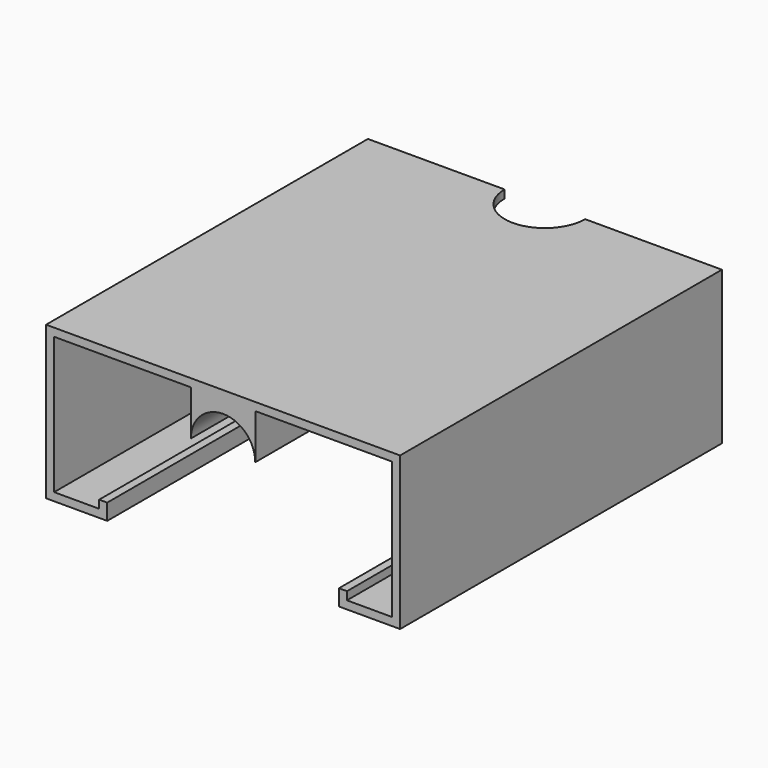
from build123d import *

# Parameters (mm, degrees)
F1_DEPTH = 25
F3_DEPTH = 9.501


with BuildPart() as f1:
    # F0 (on Front) → F1 (new body)
    with BuildSketch(Plane.XZ):
        Polygon((-11, 0), (-10.5, 0), (-10.5, 8.5), (-2, 8.5), (0, 8.5), (2, 8.5), (10.5, 8.5), (10.5, 0), (11, 0), (11, 9), (0, 9), (-11, 9), align=None)
        Polygon((-7.7, 0), (-10.5, 0), (-11, 0), (-11, -0.5), (-7.2, -0.5), (-7.2, 0.5), (-7.7, 0.5), align=None)
        with BuildLine():
            Line((0, 8.5), (-2, 8.5))
            Line((-2, 8.5), (-2, 5.7))
            ThreePointArc((-2, 5.7), (0, 7.7), (2, 5.7))
            Line((2, 5.7), (2, 8.5))
            Line((2, 8.5), (0, 8.5))
        make_face()
        Polygon((11, -0.5), (11, 0), (10.5, 0), (7.7, 0), (7.7, 0.5), (7.2, 0.5), (7.2, -0.5), align=None)
    extrude(amount=F1_DEPTH)

    # F2 (on face) → F3 (cut, through all)
    with BuildSketch(Plane.XY.offset(9)):
        with BuildLine():
            Line((0, 0), (-2.5, 0))
            ThreePointArc((-2.5, 0), (0, -2.5), (2.5, 0))
            Line((2.5, 0), (0, 0))
        make_face()
    extrude(amount=-F3_DEPTH, mode=Mode.SUBTRACT)


solid = f1.part
